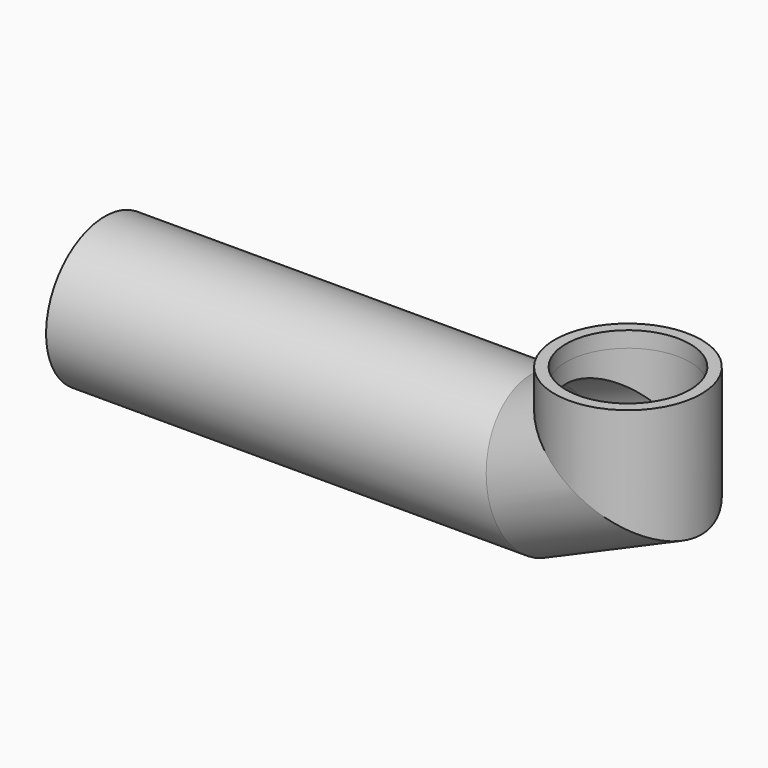
from build123d import *

# Parameters (mm, degrees)
F1_R     = 23.1230345184
F1_R_2   = 19.55
F3_DEPTH = 5
F4_DEPTH = 42


with BuildPart() as f2:
    # F2: sweep along a path in F0
    with BuildLine(Plane.XZ) as f2_path:
        Line((23.1230345184, 0), (23.1230345184, -18.8757088035))
        Line((23.1230345184, -18.8757088035), (-2.4573525631, -29.9991816282))
        Line((-2.4573525631, -29.9991816282), (-99.7967123985, -29.9991816282))
    # F1 (on Top) → F2 (sweep)
    with BuildSketch(Plane.XY):
        with Locations((23.1230345184, 0)):
            Circle(F1_R)
        with Locations((23.1230345184, 0)):
            Circle(F1_R_2, mode=Mode.SUBTRACT)
    sweep(path=f2_path.line, transition=Transition.RIGHT)

    # F1 (on Top) → F3 (join)
    with BuildSketch(Plane.XY):
        with Locations((23.1230345184, 0)):
            Circle(F1_R)
        with Locations((23.1230345184, 0)):
            Circle(F1_R_2, mode=Mode.SUBTRACT)
    extrude(amount=F3_DEPTH)

    # F4 (add): a face of the model
    f4_faces = [f2.faces().sort_by_distance(p)[0] for p in [
        (-99.7967123985, 0, -7.5301652902),
    ]]
    extrude(f4_faces, amount=F4_DEPTH)


solid = f2.part
